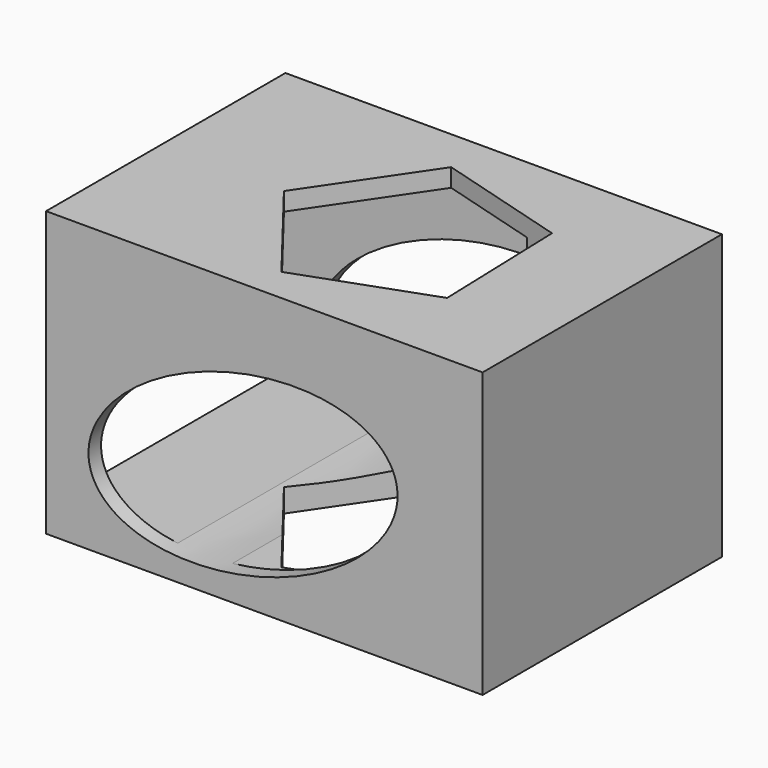
from build123d import *

# Parameters (mm, degrees)
F0_W     = 36.479156
F0_H     = 23.734506
F1_DEPTH = 25
F3_DEPTH = 25
F5_DEPTH = 25
F6_W     = 22.613946
F6_H     = 20.213978
F7_DEPTH = 25


with BuildPart() as f1:
    # F0 (on Front) → F1 (new body)
    with BuildSketch(Plane.XZ):
        with Locations((18.239578, 11.867253)):
            Rectangle(F0_W, F0_H)
    extrude(amount=F1_DEPTH)

    # F2 (on face) → F3 (cut)
    with BuildSketch(Plane.XZ.offset(25)):
        with BuildLine():
            add(Edge.make_bspline(
                [(29.210899, 13.469674), (25.693711, 25.4287), (8.3215, 13.822756), (-9.050712, 2.216812), (11.838687, 1.86373), (32.728087, 1.510647), (29.210899, 13.469674)],
                knots=[0, 0, 0, 2.094395, 2.094395, 4.18879, 4.18879, 6.283185, 6.283185, 6.283185], degree=2, weights=[1, 0.5, 1, 0.5, 1, 0.5, 1]))
        make_face()
    extrude(amount=-F3_DEPTH, mode=Mode.SUBTRACT)

    # F4 (on face) → F5 (cut)
    with BuildSketch(Plane.XY.offset(23.734506)):
        Polygon((16.759731, -3.632052), (10.343917, -13.084107), (17.35076, -22.106755), (28.097041, -18.231003), (27.731765, -6.813009), align=None)
    extrude(amount=-F5_DEPTH, mode=Mode.SUBTRACT)

    # F6 (on face) → F7 (cut)
    with BuildSketch(Plane(origin=(0, 0, 0), x_dir=(0, -1, 0), z_dir=(-1, 0, 0))):
        with Locations((12.374893, 12.108502)):
            Rectangle(F6_W, F6_H)
    extrude(amount=-F7_DEPTH, mode=Mode.SUBTRACT)


solid = f1.part
